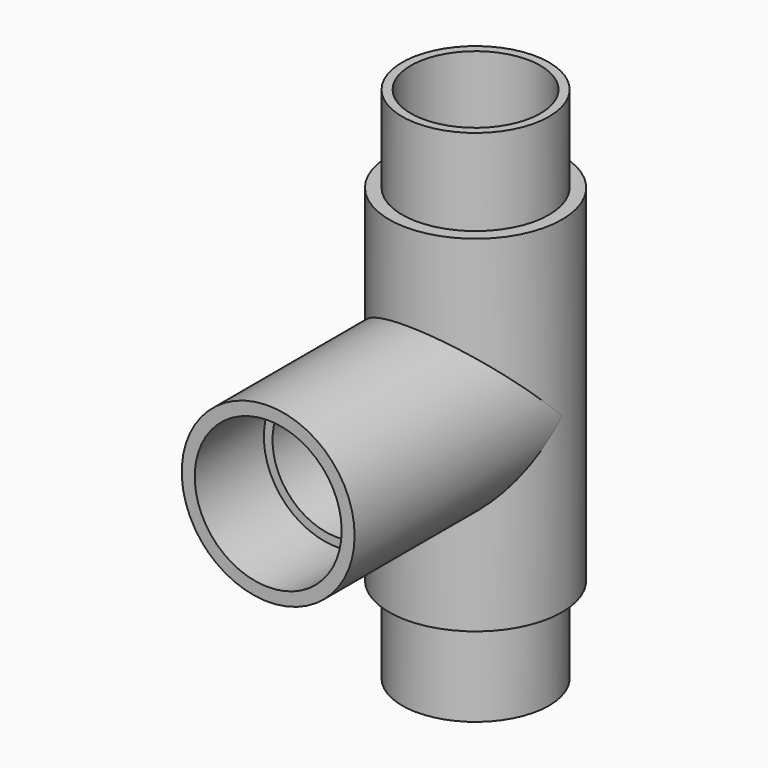
from build123d import *

# Parameters (mm, degrees)
F0_R        = 8.5
F0_R_2      = 7.5
F2_FACE_R   = 8.5
F2_FACE_R_2 = 7.5
F0_R_3      = 10
F6_R        = 10
F9_R        = 7.5
F14_R       = 8.5
F14_R_2     = 7.5
F12_R       = 7.5


with BuildPart() as f2:
    # F2: sweep along a path in F1
    with BuildLine(Plane.YZ) as f2_path:
        Line((0, 0), (0, 30))
    # F0 (on Top) → F2 (sweep)
    with BuildSketch(Plane.XY):
        Circle(F0_R)
        Circle(F0_R_2, mode=Mode.SUBTRACT)
    sweep(path=f2_path.line)

    # F4: sweep along a path in F1
    with BuildLine(Plane.YZ) as f4_path:
        Line((0, 30), (0, 0))
        Line((0, 0), (0, -30))
    # F2_face (on face) → F4 (sweep)
    with BuildSketch(Plane(origin=(0, 0, 0), x_dir=(1, 0, 0), z_dir=(0, 0, -1))):
        Circle(F2_FACE_R)
        Circle(F2_FACE_R_2, mode=Mode.SUBTRACT)
    sweep(path=f4_path.line)

    # F5: sweep along a path in F3
    with BuildLine(Plane.XZ) as f5_path:
        Line((0, 20), (0, 0))
        Line((0, 0), (0, -20))
    # F0 (on Top) → F5 (sweep)
    with BuildSketch(Plane.XY):
        Circle(F0_R_3)
        Circle(F0_R, mode=Mode.SUBTRACT)
    sweep(path=f5_path.line)

    # F8: sweep along a path in F7
    with BuildLine(Plane.YZ) as f8_path:
        Line((0, 0), (-30, 0))
    # F6 (on Front) → F8 (sweep, cut)
    with BuildSketch(Plane.XZ):
        Circle(F6_R)
    sweep(path=f8_path.line, mode=Mode.SUBTRACT)

    # F10: sweep along a path in F7
    with BuildLine(Plane.YZ) as f10_path:
        Line((0, 0), (-30, 0))
    # F6 (on Front) → F10 (sweep)
    with BuildSketch(Plane.XZ):
        Circle(F6_R)
    sweep(path=f10_path.line)

    # F11: sweep along a path in F7
    with BuildLine(Plane.YZ) as f11_path:
        Line((0, 0), (-30, 0))
    # F9 (on face) → F11 (sweep, cut)
    with BuildSketch(Plane.XZ):
        Circle(F9_R)
    sweep(path=f11_path.line, mode=Mode.SUBTRACT)

    # F15: sweep along a path in F13
    with BuildLine(Plane.XY) as f15_path:
        Line((0, -30), (0, -20))
    # F14 (on face) → F15 (sweep, cut)
    with BuildSketch(Plane.XZ.offset(30)):
        Circle(F14_R)
        Circle(F14_R_2, mode=Mode.SUBTRACT)
    sweep(path=f15_path.line, mode=Mode.SUBTRACT)

    # F16: sweep along a path in F3
    with BuildLine(Plane.XZ) as f16_path:
        Line((0, 20), (0, 0))
        Line((0, 0), (0, -20))
    # F12 (on Top) → F16 (sweep, cut)
    with BuildSketch(Plane.XY):
        Circle(F12_R)
    sweep(path=f16_path.line, mode=Mode.SUBTRACT)

    # F17: sweep along a path in F1
    with BuildLine(Plane.YZ) as f17_path:
        Line((0, 30), (0, 0))
        Line((0, 0), (0, -30))
    # F12 (on Top) → F17 (sweep, cut)
    with BuildSketch(Plane.XY):
        Circle(F12_R)
    sweep(path=f17_path.line, mode=Mode.SUBTRACT)


solid = f2.part
